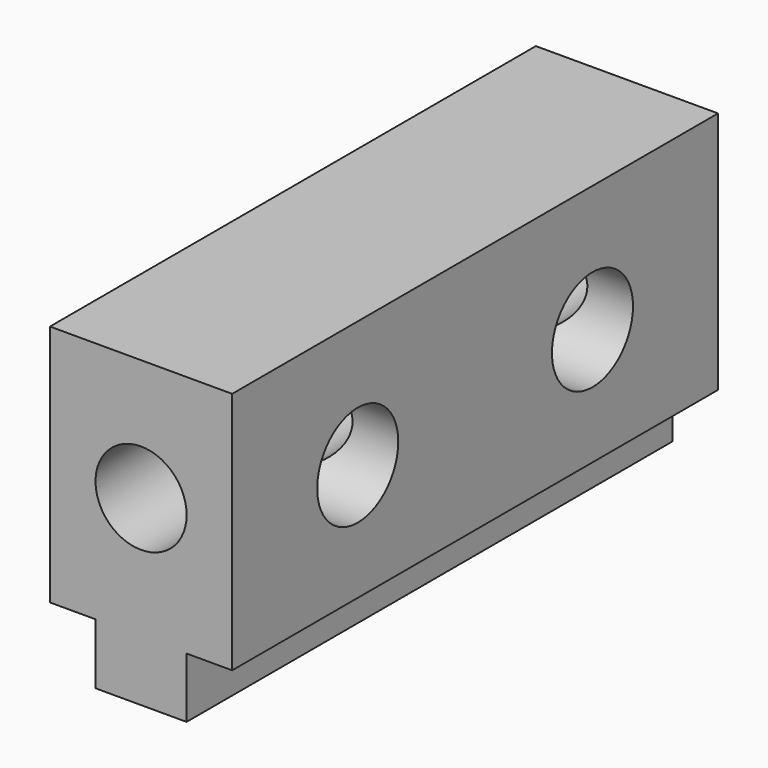
from build123d import *

# Parameters (mm, degrees)
F1_DEPTH  = 127
F2_R      = 104.325393
F2_R_2    = 26.179728
F2_R_3    = 10.594913
F3_DEPTH  = 38.1
F3_FACE_R = 10.594913
F4_DEPTH  = 38.1
F5_R      = 9.525
F6_DEPTH  = 127


with BuildPart() as f1:
    # F0 (on Front) → F1 (new body)
    with BuildSketch(Plane.XZ):
        Polygon((12.158688, 37.641967), (-25.941312, 37.641967), (-25.941312, -13.158033), (-16.416312, -13.158033), (-16.416312, -25.858033), (2.62328, -25.858033), (2.62328, -13.26213), (12.158688, -13.26213), align=None)
    extrude(amount=F1_DEPTH)

    # F2 (on Right) → F3 (cut)
    with BuildSketch(Plane.YZ):
        with Locations((-442.556002, 14.38355)):
            Circle(F2_R)
        with Locations((196.325033, 10.431935)):
            Circle(F2_R_2)
        with Locations((-94.180087, 11.172054)):
            Circle(F2_R_3)
        with Locations((-32.819913, 11.172054)):
            Circle(F2_R_3)
    extrude(amount=-F3_DEPTH, mode=Mode.SUBTRACT)

    # F3_face (on face) → F4 (cut)
    with BuildSketch(Plane(origin=(0, -32.819913, 11.172054), x_dir=(0, 1, 0), z_dir=(-1, 0, 0))):
        Circle(F3_FACE_R)
        with Locations((-61.360174, 0)):
            Circle(F3_FACE_R)
    extrude(amount=-F4_DEPTH, mode=Mode.SUBTRACT)

    # F5 (on Front) → F6 (cut)
    with BuildSketch(Plane.XZ):
        with Locations((-6.891312, 12.241967)):
            Circle(F5_R)
    extrude(amount=F6_DEPTH, mode=Mode.SUBTRACT)


solid = f1.part
